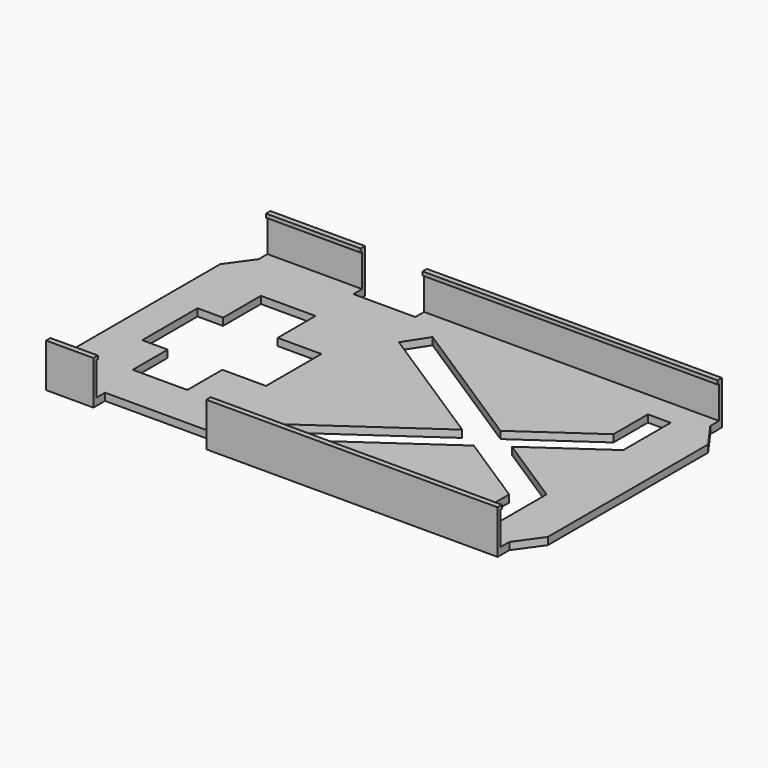
from build123d import *

# Parameters (mm, degrees)
F0_W      = 134
F0_H      = 69
F1_DEPTH  = 2
F2_W      = 81
F2_H      = 2
F3_DEPTH  = 4
F4_W      = 81
F4_H      = 4
F5_DEPTH  = 3
F6_DEPTH  = 7
F7_DEPTH  = 3
F8_W      = 81
F8_H      = 1
F9_DEPTH  = 0.5
F10_DEPTH = 1
F11_W     = 13
F11_H     = 2
F12_DEPTH = 4
F13_W     = 13
F13_H     = 4
F14_DEPTH = 10
F15_DEPTH = 3
F16_W     = 13
F16_H     = 0.9976745471
F17_DEPTH = 0.5
F18_W     = 81
F18_H     = 2
F19_DEPTH = 4
F20_W     = 81
F20_H     = 4
F21_DEPTH = 10
F22_DEPTH = 3
F23_W     = 81
F23_H     = 1
F24_DEPTH = 0.5
F25_W     = 26
F25_H     = 2
F26_DEPTH = 4
F27_W     = 26
F27_H     = 4
F28_DEPTH = 10
F29_DEPTH = 3
F30_W     = 26
F30_H     = 1
F31_DEPTH = 0.5
F33_DEPTH = 2.001
F34_W     = 15
F34_H     = 44
F35_DEPTH = 12.001
F36_W     = 7
F36_H     = 19
F36_W_2   = 15
F36_W_3   = 12
F37_DEPTH = 12.001
F40_DEPTH = 12.001


with BuildPart() as f1:
    # F0 (on Top) → F1 (new body)
    with BuildSketch(Plane.XY):
        with Locations((-4.8879205883, 25.1932881936)):
            Rectangle(F0_W, F0_H)
    extrude(amount=F1_DEPTH)

    # F2 (on face) → F3 (join)
    with BuildSketch(Plane.XZ.offset(9.3067118064)):
        with Locations((16.6120794117, 1)):
            Rectangle(F2_W, F2_H)
    extrude(amount=F3_DEPTH)

    # F4 (on face) → F5 (join)
    with BuildSketch(Plane.XY.offset(2)):
        with Locations((16.6120794117, -11.3067118064)):
            Rectangle(F4_W, F4_H)
    extrude(amount=F5_DEPTH)

    # F6 (add): a face of the model
    f6_faces = [f1.faces().sort_by_distance(p)[0] for p in [
        (16.6120794117, -11.3067118064, 5),
    ]]
    extrude(f6_faces, amount=F6_DEPTH)

    # F7 (cut): a face of the model
    f7_faces = [f1.faces().sort_by_distance(p)[0] for p in [
        (16.6120794117, -9.3067118064, 7),
    ]]
    extrude(f7_faces, amount=-F7_DEPTH, mode=Mode.SUBTRACT)

    # F8 (on face) → F9 (join)
    with BuildSketch(Plane(origin=(0, -12.3067118064, 0), x_dir=(-1, 0, 0), z_dir=(0, 1, 0))):
        with Locations((-16.6120794117, 11.5)):
            Rectangle(F8_W, F8_H)
    extrude(amount=F9_DEPTH)

    # F10 (cut): a face of the model
    f10_faces = [f1.faces().sort_by_distance(p)[0] for p in [
        (-23.8879205883, -11.3067118064, 0.1264911064),
    ]]
    extrude(f10_faces, amount=-F10_DEPTH, mode=Mode.SUBTRACT)

    # F11 (on face) → F12 (join)
    with BuildSketch(Plane.XZ.offset(9.3067118064)):
        with Locations((-60.3879205883, 1)):
            Rectangle(F11_W, F11_H)
    extrude(amount=F12_DEPTH)

    # F13 (on face) → F14 (join)
    with BuildSketch(Plane.XY.offset(2)):
        with Locations((-60.3879205883, -11.3067118064)):
            Rectangle(F13_W, F13_H)
    extrude(amount=F14_DEPTH)

    # F15 (cut): a face of the model
    f15_faces = [f1.faces().sort_by_distance(p)[0] for p in [
        (-60.3879205883, -9.3067118064, 7),
    ]]
    extrude(f15_faces, amount=-F15_DEPTH, mode=Mode.SUBTRACT)

    # F16 (on face) → F17 (join)
    with BuildSketch(Plane(origin=(0, -12.3067118064, 0), x_dir=(-1, 0, 0), z_dir=(0, 1, 0))):
        with Locations((60.3879205883, 11.5011627264)):
            Rectangle(F16_W, F16_H)
    extrude(amount=F17_DEPTH)

    # F18 (on face) → F19 (join)
    with BuildSketch(Plane(origin=(0, 59.6932881936, 0), x_dir=(-1, 0, 0), z_dir=(0, 1, 0))):
        with Locations((-16.6120794117, 1)):
            Rectangle(F18_W, F18_H)
    extrude(amount=F19_DEPTH)

    # F20 (on face) → F21 (join)
    with BuildSketch(Plane.XY.offset(2)):
        with Locations((16.6120794117, 61.6932881936)):
            Rectangle(F20_W, F20_H)
    extrude(amount=F21_DEPTH)

    # F22 (cut): a face of the model
    f22_faces = [f1.faces().sort_by_distance(p)[0] for p in [
        (16.6120794117, 59.6932881936, 7),
    ]]
    extrude(f22_faces, amount=-F22_DEPTH, mode=Mode.SUBTRACT)

    # F23 (on face) → F24 (join)
    with BuildSketch(Plane.XZ.offset(-62.6932881936)):
        with Locations((16.6120794117, 11.5)):
            Rectangle(F23_W, F23_H)
    extrude(amount=F24_DEPTH)

    # F25 (on face) → F26 (join)
    with BuildSketch(Plane(origin=(0, 59.6932881936, 0), x_dir=(-1, 0, 0), z_dir=(0, 1, 0))):
        with Locations((53.8879205883, 1)):
            Rectangle(F25_W, F25_H)
    extrude(amount=F26_DEPTH)

    # F27 (on face) → F28 (join)
    with BuildSketch(Plane.XY.offset(2)):
        with Locations((-53.8879205883, 61.6932881936)):
            Rectangle(F27_W, F27_H)
    extrude(amount=F28_DEPTH)

    # F29 (cut): a face of the model
    f29_faces = [f1.faces().sort_by_distance(p)[0] for p in [
        (-53.8879205883, 59.6932881936, 7),
    ]]
    extrude(f29_faces, amount=-F29_DEPTH, mode=Mode.SUBTRACT)

    # F30 (on face) → F31 (join)
    with BuildSketch(Plane.XZ.offset(-62.6932881936)):
        with Locations((-53.8879205883, 11.5)):
            Rectangle(F30_W, F30_H)
    extrude(amount=F31_DEPTH)

    # F32 (on face) → F33 (cut, through all)
    with BuildSketch(Plane.XY.offset(2)):
        Polygon((-71.8879205883, 52.6932881936), (-66.8879205883, 59.6932881936), (-71.8879205883, 59.6932881936), align=None)
        Polygon((-66.8879205883, -9.3067118064), (-71.8879205883, -2.3067118064), (-71.8879205883, -9.3067118064), align=None)
        Polygon((62.1120794117, -9.3067118064), (62.1120794117, -2.3067118064), (57.1120794117, -9.3067118064), align=None)
        Polygon((62.1120794117, 59.6932881936), (57.1120794117, 59.6932881936), (62.1120794117, 52.6932881936), align=None)
    extrude(amount=-F33_DEPTH, mode=Mode.SUBTRACT)

    # F34 (on face) → F35 (cut, through all)
    with BuildSketch(Plane(origin=(0, 0, 0), x_dir=(1, 0, 0), z_dir=(0, 0, -1))):
        with Locations((-48.3879205883, -24.6932881936)):
            Rectangle(F34_W, F34_H)
    extrude(amount=-F35_DEPTH, mode=Mode.SUBTRACT)

    # F36 (on face) → F37 (cut, through all)
    with BuildSketch(Plane(origin=(0, 0, 0), x_dir=(1, 0, 0), z_dir=(0, 0, -1))):
        with Locations((-59.3879205883, -24.1932881936)):
            Rectangle(F36_W, F36_H)
        with Locations((-48.3879205883, -24.1932881936)):
            Rectangle(F36_W_2, F36_H)
        with Locations((-34.8879205883, -24.1932881936)):
            Rectangle(F36_W_3, F36_H)
    extrude(amount=-F37_DEPTH, mode=Mode.SUBTRACT)

    # F39 (on face) → F40 (cut, through all)
    with BuildSketch(Plane(origin=(0, 0, 0), x_dir=(1, 0, 0), z_dir=(0, 0, -1))):
        Polygon((43.3054530231, -55.5370226502), (49.5563223958, -55.5370226502), (49.5563223958, -39.2849373539), (29.9500417569, -25.5961895548), (23.4002765373, -29.8256016073), (43.3054530231, -43.723033039), align=None)
        Polygon((23.4002765373, -29.8256016073), (29.9500417569, -25.5961895548), (23.2038749613, -20.8861388534), (16.6541097417, -25.1155509059), align=None)
        Polygon((23.2038749613, -20.8861388534), (29.9500417569, -25.5961895548), (49.5563223958, -12.9357296973), (49.5563223958, 5.9177065827), (43.3054530231, 5.9177065827), (43.3054530231, -7.9058481593), align=None)
        Polygon((16.6541097417, -25.1155509059), (23.2038749613, -20.8861388534), (-15.187051918, 5.9177065827), (-19.3186867982, 0), align=None)
        Polygon((-15.187051918, -54.7427866621), (23.4002765373, -29.8256016073), (16.6541097417, -25.1155509059), (-19.3186867982, -48.3444414305), align=None)
    extrude(amount=-F40_DEPTH, mode=Mode.SUBTRACT)


solid = f1.part
